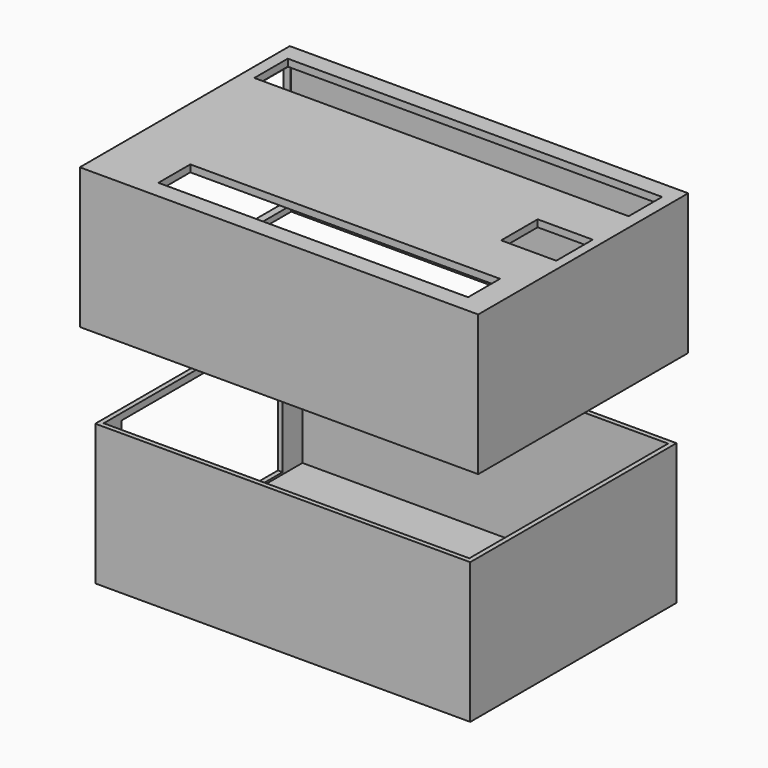
from build123d import *

# Parameters (mm, degrees)
F0_W      = 80
F0_H      = 30
F1_DEPTH  = 55
F2_T      = -1
F3_W      = 85
F3_H      = 30
F4_DEPTH  = 56
F5_T      = -1.5
F6_W      = 52.702705
F6_H      = 26.351357
F7_DEPTH  = 50
F8_W      = 42.972975
F8_H      = 27.162162
F9_DEPTH  = 50
F10_W     = 79.86487
F10_H     = 8.918919
F11_DEPTH = 25
F12_W     = 66.081084
F12_H     = 8.513503
F13_DEPTH = 25
F14_W     = 11.756755
F14_H     = 9.729728
F15_DEPTH = 25


with BuildPart() as f1:
    # F0 (on Front) → F1 (new body)
    with BuildSketch(Plane.XZ):
        Rectangle(F0_W, F0_H)
    extrude(amount=F1_DEPTH)

    # F2
    f2_openings = [f1.faces().sort_by_distance(p)[0] for p in [
        (0, -27.5, 15),
    ]]
    offset(amount=F2_T, openings=f2_openings)

    # F8 (on Right) → F9 (cut)
    with BuildSketch(Plane.YZ):
        with Locations((-27.770271, 0)):
            Rectangle(F8_W, F8_H)
    extrude(amount=-F9_DEPTH, mode=Mode.SUBTRACT)


with BuildPart() as f4:
    # F3 (on Front) → F4 (new body)
    with BuildSketch(Plane.XZ):
        with Locations((0, 47.748494)):
            Rectangle(F3_W, F3_H)
    extrude(amount=F4_DEPTH)

    # F5
    f5_openings = [f4.faces().sort_by_distance(p)[0] for p in [
        (0, -28, 32.748494),
    ]]
    offset(amount=F5_T, openings=f5_openings)

    # F6 (on Right) → F7 (cut)
    with BuildSketch(Plane.YZ):
        with Locations((-27.97297, 47.128379)):
            Rectangle(F6_W, F6_H)
    extrude(amount=-F7_DEPTH, mode=Mode.SUBTRACT)

    # F10 (on face) → F11 (cut)
    with BuildSketch(Plane.XY.offset(62.748494)):
        with Locations((0, -8.209459)):
            Rectangle(F10_W, F10_H)
    extrude(amount=-F11_DEPTH, mode=Mode.SUBTRACT)

    # F12 (on face) → F13 (cut)
    with BuildSketch(Plane.XY.offset(62.748494)):
        with Locations((4.256756, -47.939189)):
            Rectangle(F12_W, F12_H)
    extrude(amount=-F13_DEPTH, mode=Mode.SUBTRACT)

    # F14 (on face) → F15 (cut)
    with BuildSketch(Plane.XY.offset(62.748494)):
        with Locations((34.662168, -27.871622)):
            Rectangle(F14_W, F14_H)
    extrude(amount=-F15_DEPTH, mode=Mode.SUBTRACT)


solid = Compound([f1.part, f4.part])
